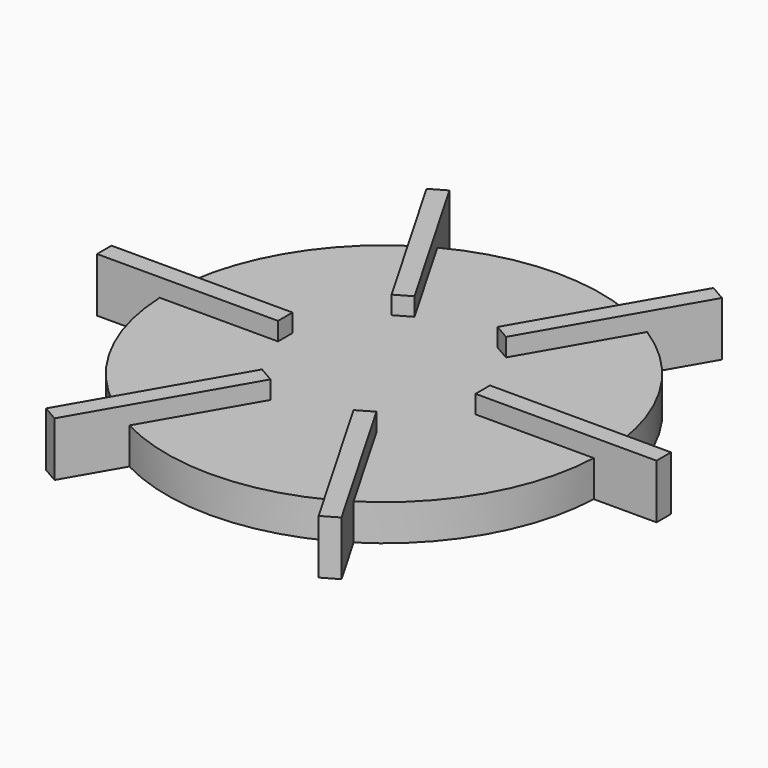
from build123d import *

# Parameters (mm, degrees)
CIRCLE_R         = 60
EXTRUDE067_DEPTH = 10
ARRAY019_W       = 5
ARRAY019_H       = 50
EXTRUDE066_DEPTH = 15


with BuildPart() as extrude093:
    # Circle → Extrude067 (new body)
    with BuildSketch(Plane.XY):
        Circle(CIRCLE_R)
    extrude(amount=EXTRUDE067_DEPTH)


with BuildPart() as fusion046:
    # Array019 → Extrude066 (new body)
    with BuildSketch(Plane(origin=(52.270737, 0, 0), x_dir=(0, 1, 0), z_dir=(0, 0, 1))):
        Rectangle(ARRAY019_W, ARRAY019_H)
        Polygon((22.367151, 36.470305), (65.668421, 11.470305), (68.168421, 15.800432), (24.867151, 40.800432), align=None)
        Polygon((24.867151, 63.741042), (68.168421, 88.741042), (65.668421, 93.071169), (22.367151, 68.071169), align=None)
        with Locations((0, 104.541473)):
            Rectangle(ARRAY019_W, ARRAY019_H)
        Polygon((-22.367151, 68.071169), (-65.668421, 93.071169), (-68.168421, 88.741042), (-24.867151, 63.741042), align=None)
        Polygon((-24.867151, 40.800432), (-68.168421, 15.800432), (-65.668421, 11.470305), (-22.367151, 36.470305), align=None)
    extrude(amount=EXTRUDE066_DEPTH)

    # Fusion045: union Extrude093
    add(extrude093.part)


with BuildPart() as fusion046_1:
    # Fusion045 placement: moved
    add(fusion046.part.moved(Location((150, -307.572449, 20))))


with BuildPart() as fusion046_2:
    # Clone081 placement: moved
    add(fusion046_1.part.moved(Location((0, -231.754333, 0))))


solid = fusion046_2.part
